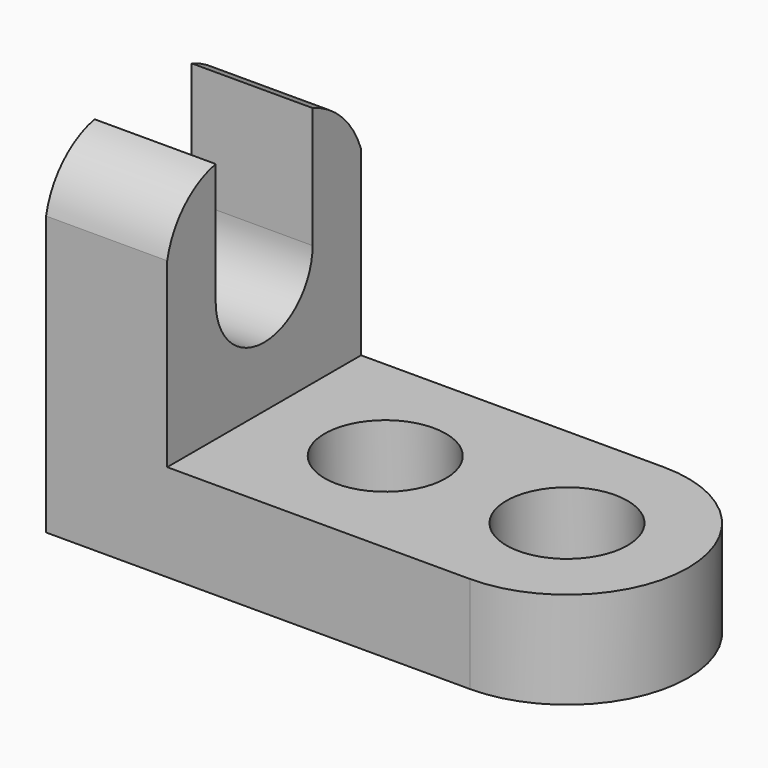
from build123d import *

# Parameters (mm, degrees)
F0_W      = 44.45
F0_H      = 10.16
F1_DEPTH  = 25.4
F3_DEPTH  = 10.16
F4_W      = 12.7
F4_H      = 25.4
F5_DEPTH  = 19.05
F6_DEPTH  = 6.35
F9_DEPTH  = 25.4
F10_DEPTH = 25.4
F11_DEPTH = 50.8
F12_W     = 12.7
F12_H     = 12.7
F13_DEPTH = 25.4
F14_R     = 6.35
F15_DEPTH = 25.4
F16_R     = 6.35
F17_DEPTH = 25.4


with BuildPart() as f1:
    # F0 (on Front) → F1 (new body)
    with BuildSketch(Plane.XZ):
        with Locations((-22.225, 5.08)):
            Rectangle(F0_W, F0_H)
    extrude(amount=F1_DEPTH)

    # F2 (on face) → F3 (join)
    with BuildSketch(Plane.XY.offset(10.16)):
        with BuildLine():
            Line((0, 0), (0, -25.4))
            ThreePointArc((0, -25.4), (12.7, -12.7), (0, 0))
        make_face()
    extrude(amount=-F3_DEPTH)

    # F4 (on face) → F5 (join)
    with BuildSketch(Plane.XY.offset(10.16)):
        with Locations((-38.1, -12.7)):
            Rectangle(F4_W, F4_H)
    extrude(amount=F5_DEPTH)

    # F6 (add): a face of the model
    f6_faces = [f1.faces().sort_by_distance(p)[0] for p in [
        (-38.1, -12.7, 29.21),
    ]]
    extrude(f6_faces, amount=F6_DEPTH)

    # F7 (on face) → F9 (cut)
    with BuildSketch(Plane.YZ.offset(-31.75)):
        with BuildLine():
            ThreePointArc((-25.4, 29.21), (-23.1840796039, 33.3440796039), (-19.05, 35.56))
            Line((-19.05, 35.56), (-25.4, 35.56))
            Line((-25.4, 35.56), (-25.4, 29.21))
        make_face()
    extrude(amount=-F9_DEPTH, mode=Mode.SUBTRACT)

    # F8 (on face) → F10 (join)
    with BuildSketch(Plane.YZ.offset(-31.75)):
        with BuildLine():
            ThreePointArc((-6.35, 35.56), (-2.4561746111, 33.1038253889), (0, 29.21))
            Line((0, 29.21), (0, 35.56))
            Line((0, 35.56), (-6.35, 35.56))
        make_face()
    extrude(amount=F10_DEPTH)

    # F11 (cut): a face of the model
    f11_faces = [f1.faces().sort_by_distance(p)[0] for p in [
        (-6.35, -1.7790367602, 33.7809632398),
    ]]
    extrude(f11_faces, amount=-F11_DEPTH, mode=Mode.SUBTRACT)

    # F12 (on face) → F13 (cut)
    with BuildSketch(Plane.YZ.offset(-31.75)):
        with Locations((-12.7, 29.21)):
            Rectangle(F12_W, F12_H)
        with BuildLine():
            Line((-6.35, 22.86), (-19.05, 22.86))
            ThreePointArc((-19.05, 22.86), (-12.7, 16.51), (-6.35, 22.86))
        make_face()
    extrude(amount=-F13_DEPTH, mode=Mode.SUBTRACT)

    # F14 (on face) → F15 (cut)
    with BuildSketch(Plane.XY.offset(10.16)):
        with Locations((-19.05, -12.7)):
            Circle(F14_R)
    extrude(amount=-F15_DEPTH, mode=Mode.SUBTRACT)

    # F16 (on face) → F17 (cut)
    with BuildSketch(Plane.XY.offset(10.16)):
        with Locations((0, -12.7)):
            Circle(F16_R)
    extrude(amount=-F17_DEPTH, mode=Mode.SUBTRACT)


solid = f1.part
